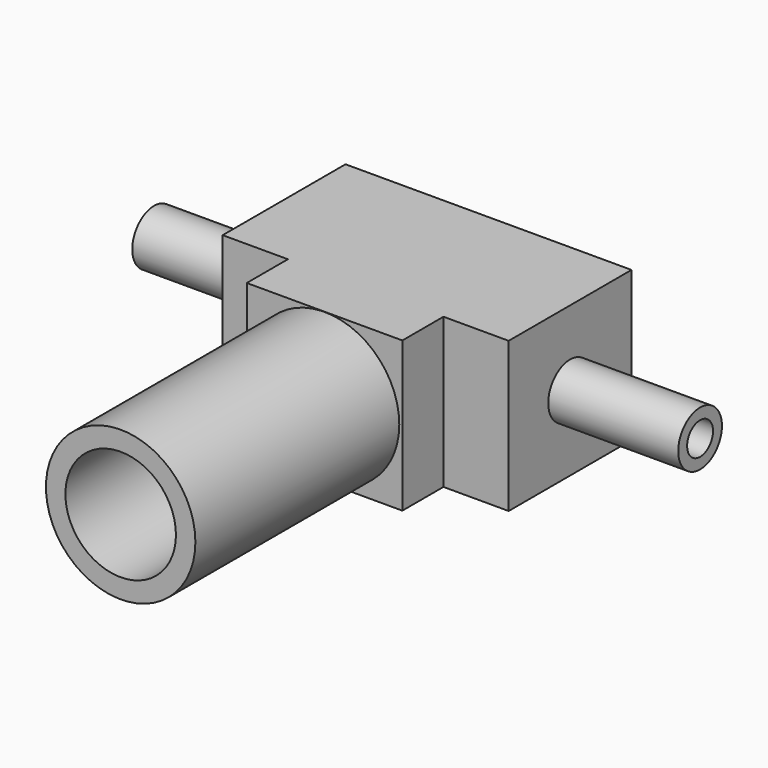
from build123d import *

# Parameters (mm, degrees)
F0_W      = 266.7
F0_H      = 73.2
F1_DEPTH  = 75
F2_W      = 76
F2_H      = 73.2
F3_DEPTH  = 124.6
F4_R      = 58.834667
F5_DEPTH  = 63.5
F6_R      = 62.865407
F7_DEPTH  = 63.5
F3_FACE_W = 76
F3_FACE_H = 73.2
F8_DEPTH  = 25
F9_R      = 76.896223
F9_R_2    = 36.5
F10_DEPTH = 124.5
F11_R     = 27
F12_DEPTH = 191
F13_R     = 7.90944
F14_DEPTH = 291


with BuildPart() as f1:
    # F0 (on Front) → F1 (new body)
    with BuildSketch(Plane.XZ):
        Rectangle(F0_W, F0_H)
    extrude(amount=F1_DEPTH)

    # F2 (on face) → F3 (join)
    with BuildSketch(Plane.XZ.offset(75)):
        Rectangle(F2_W, F2_H)
    extrude(amount=F3_DEPTH)

    # F4 (on face) → F5 (cut)
    with BuildSketch(Plane.YZ.offset(133.35)):
        with Locations((-37.5, 0)):
            Circle(F4_R)
        with BuildLine():
            ThreePointArc((-50.835, 0), (-37.5, 13.335), (-24.165, 0))
            ThreePointArc((-24.165, 0), (-37.5, -13.335), (-50.835, 0))
        make_face(mode=Mode.SUBTRACT)
    extrude(amount=-F5_DEPTH, mode=Mode.SUBTRACT)

    # F6 (on face) → F7 (cut)
    with BuildSketch(Plane(origin=(-133.35, 0, 0), x_dir=(0, -1, 0), z_dir=(-1, 0, 0))):
        with Locations((37.5, 0)):
            Circle(F6_R)
        with BuildLine():
            ThreePointArc((50.835, 0), (37.5, -13.335), (24.165, 0))
            ThreePointArc((24.165, 0), (37.5, 13.335), (50.835, 0))
        make_face(mode=Mode.SUBTRACT)
    extrude(amount=-F7_DEPTH, mode=Mode.SUBTRACT)

    # F3_face (on face) → F8 (join)
    with BuildSketch(Plane.XZ.offset(199.6)):
        Rectangle(F3_FACE_W, F3_FACE_H)
    extrude(amount=F8_DEPTH)

    # F9 (on face) → F10 (cut)
    with BuildSketch(Plane.XZ.offset(224.6)):
        Circle(F9_R)
        Circle(F9_R_2, mode=Mode.SUBTRACT)
    extrude(amount=-F10_DEPTH, mode=Mode.SUBTRACT)

    # F11 (on face) → F12 (cut)
    with BuildSketch(Plane.XZ.offset(224.6)):
        Circle(F11_R)
    extrude(amount=-F12_DEPTH, mode=Mode.SUBTRACT)

    # F13 (on face) → F14 (cut)
    with BuildSketch(Plane.YZ.offset(133.35)):
        with Locations((-37.5, 0)):
            Circle(F13_R)
    extrude(amount=-F14_DEPTH, mode=Mode.SUBTRACT)


solid = f1.part
